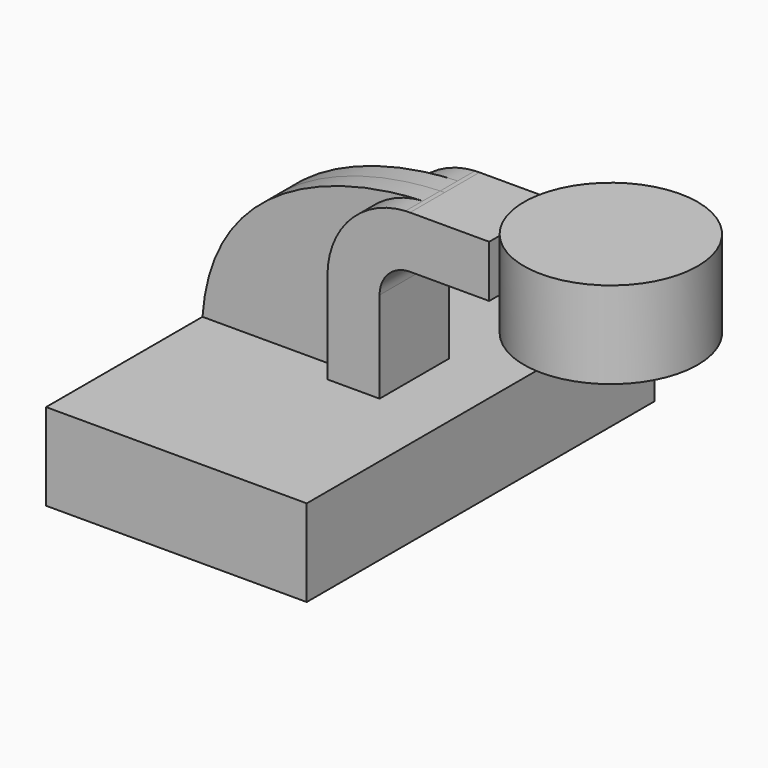
from build123d import *

# Parameters (mm, degrees)
F1_DEPTH = 63.5
F2_DEPTH = 12.7
F3_DEPTH = 6.35
F0_W     = 25.4
F0_H     = 25.4


with BuildPart() as f1:
    # F0 (on Front) → F1 (new body, symmetric)
    with BuildSketch(Plane.XZ):
        Polygon((-38.1, -12.7), (38.1, -12.7), (38.1, 12.7), (18.755794, 12.7), (3.515794, 12.7), (-38.1, 12.7), align=None)
    extrude(amount=F1_DEPTH, both=True)

    # F0 (on Front) → F2 (join, symmetric)
    with BuildSketch(Plane.XZ):
        with BuildLine():
            Line((3.515794, 12.7), (18.755794, 12.7))
            Line((18.755794, 12.7), (18.755794, 39.37))
            ThreePointArc((18.755794, 39.37), (21.359615, 45.656179), (27.645794, 48.26))
            Line((27.645794, 48.26), (50.8, 48.26))
            Line((50.8, 48.26), (50.8, 63.5))
            Line((50.8, 63.5), (27.645794, 63.5))
            add(Edge.make_bspline(
                [(26.329729, 63.464084), (26.772972, 63.479413), (27.211759, 63.491349), (27.645794, 63.5)],
                knots=[81.590711, 81.590711, 81.590711, 81.590711, 83.085194, 83.085194, 83.085194, 83.085194], degree=3))
            ThreePointArc((26.329729, 63.464084), (10.124185, 55.960664), (3.515794, 39.37))
            Line((3.515794, 39.37), (3.515794, 12.7))
        make_face()
    extrude(amount=F2_DEPTH, both=True)

    # F0 (on Front) → F3 (join, symmetric)
    with BuildSketch(Plane.XZ):
        with BuildLine():
            add(Edge.make_bspline(
                [(-38.1, 12.7), (-35.351976, 51.67364), (2.131002, 62.62717), (26.329729, 63.464084)],
                knots=[0, 0, 0, 0, 81.590711, 81.590711, 81.590711, 81.590711], degree=3))
            Line((-38.1, 12.7), (3.515794, 12.7))
            Line((3.515794, 12.7), (3.515794, 39.37))
            ThreePointArc((3.515794, 39.37), (10.124185, 55.960664), (26.329729, 63.464084))
        make_face()
    extrude(amount=F3_DEPTH, both=True)

    # F0 (on Front) → F4 (revolve)
    with BuildSketch(Plane.XZ):
        with Locations((88.9, 55.88)):
            Rectangle(F0_W, F0_H)
    revolve(axis=Axis((76.2, 0, 55.88), (0, 0, -1)))


solid = f1.part
